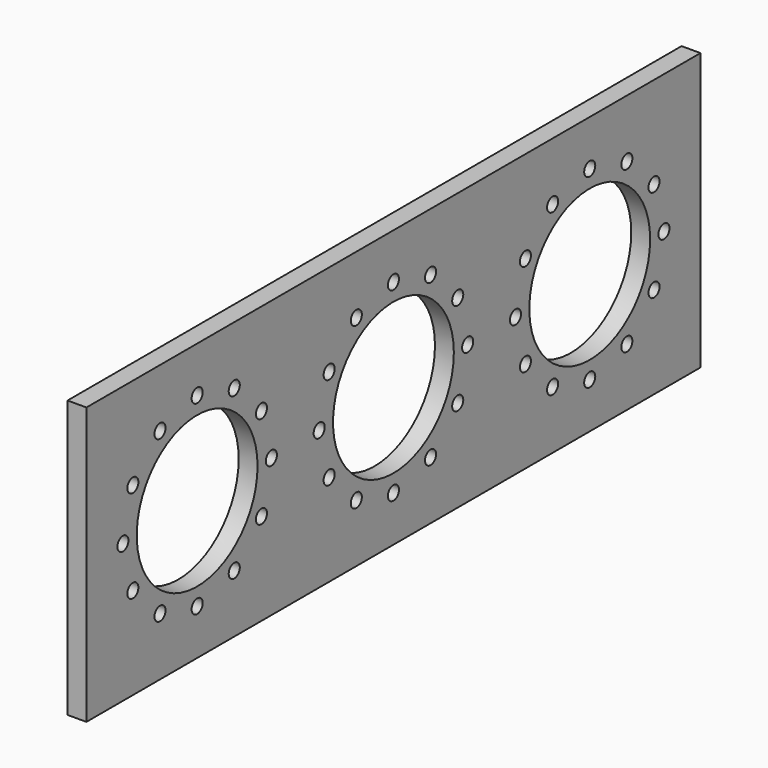
from build123d import *

# Parameters (mm, degrees)
F0_W     = 1220
F0_H     = 440
F0_R     = 120
F1_DEPTH = 30
F2_R     = 11
F3_DEPTH = 25


with BuildPart() as f1:
    # F0 (on Right) → F1 (new body)
    with BuildSketch(Plane.YZ):
        with Locations((610, 220)):
            Rectangle(F0_W, F0_H)
        with Locations((220, 220)):
            Circle(F0_R, mode=Mode.SUBTRACT)
        with Locations((610, 220)):
            Circle(F0_R, mode=Mode.SUBTRACT)
        with Locations((1000, 220)):
            Circle(F0_R, mode=Mode.SUBTRACT)
    extrude(amount=F1_DEPTH)

    # F2 (on face) → F3 (cut)
    with BuildSketch(Plane.YZ.offset(30)):
        with Locations((367.5, 220)):
            Circle(F2_R)
        with Locations((347.738747, 146.25)):
            Circle(F2_R)
        with Locations((293.75, 92.261253)):
            Circle(F2_R)
        with Locations((220, 72.5)):
            Circle(F2_R)
        with Locations((146.25, 92.261253)):
            Circle(F2_R)
        with Locations((92.261253, 146.25)):
            Circle(F2_R)
        with Locations((72.5, 220)):
            Circle(F2_R)
        with Locations((92.261253, 293.75)):
            Circle(F2_R)
        with Locations((146.25, 347.738747)):
            Circle(F2_R)
        with Locations((220, 367.5)):
            Circle(F2_R)
        with Locations((293.75, 347.738747)):
            Circle(F2_R)
        with Locations((347.738747, 293.75)):
            Circle(F2_R)
        with Locations((757.5, 220)):
            Circle(F2_R)
        with Locations((737.738747, 293.75)):
            Circle(F2_R)
        with Locations((683.75, 347.738747)):
            Circle(F2_R)
        with Locations((610, 367.5)):
            Circle(F2_R)
        with Locations((536.25, 347.738747)):
            Circle(F2_R)
        with Locations((482.261253, 293.75)):
            Circle(F2_R)
        with Locations((462.5, 220)):
            Circle(F2_R)
        with Locations((482.261253, 146.25)):
            Circle(F2_R)
        with Locations((536.25, 92.261253)):
            Circle(F2_R)
        with Locations((610, 72.5)):
            Circle(F2_R)
        with Locations((683.75, 92.261253)):
            Circle(F2_R)
        with Locations((737.738747, 146.25)):
            Circle(F2_R)
        with BuildLine():
            ThreePointArc((1136.5, 220), (1147.5, 209), (1158.5, 220))
            ThreePointArc((1158.5, 220), (1147.5, 231), (1136.5, 220))
        make_face()
        with Locations((1127.738747, 293.75)):
            Circle(F2_R)
        with Locations((1073.75, 347.738747)):
            Circle(F2_R)
        with Locations((1000, 367.5)):
            Circle(F2_R)
        with Locations((926.25, 347.738747)):
            Circle(F2_R)
        with Locations((872.261253, 293.75)):
            Circle(F2_R)
        with Locations((852.5, 220)):
            Circle(F2_R)
        with Locations((872.261253, 146.25)):
            Circle(F2_R)
        with Locations((926.25, 92.261253)):
            Circle(F2_R)
        with Locations((1000, 72.5)):
            Circle(F2_R)
        with Locations((1073.75, 92.261253)):
            Circle(F2_R)
        with Locations((1127.738747, 146.25)):
            Circle(F2_R)
    extrude(amount=-F3_DEPTH, mode=Mode.SUBTRACT)


solid = f1.part
